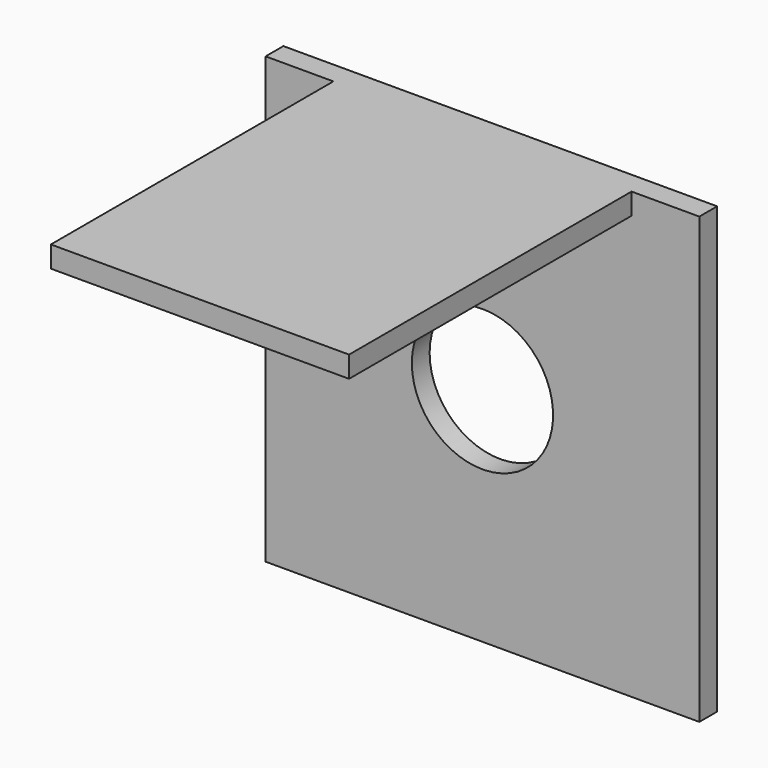
from build123d import *

# Parameters (mm, degrees)
F0_W     = 39
F0_H     = 40
F1_DEPTH = 2
F2_W     = 26.8125
F2_H     = 1.9177
F3_DEPTH = 31.75
F5_D     = 12.7
F5_DEPTH = 76.2


with BuildPart() as f1:
    # F0 (on Front) → F1 (new body)
    with BuildSketch(Plane.XZ):
        with Locations((4.479941, -15.969917)):
            Rectangle(F0_W, F0_H)
    extrude(amount=F1_DEPTH)

    # F2 (on face) → F3 (join)
    with BuildSketch(Plane.XZ.offset(2)):
        with Locations((4.479941, 3.071233)):
            Rectangle(F2_W, F2_H)
    extrude(amount=F3_DEPTH)

    # F5
    with Locations(Plane.XZ.offset(2)):
        with Locations((4.479941, -15.969917)):
            Hole(F5_D / 2, depth=F5_DEPTH)


solid = f1.part
